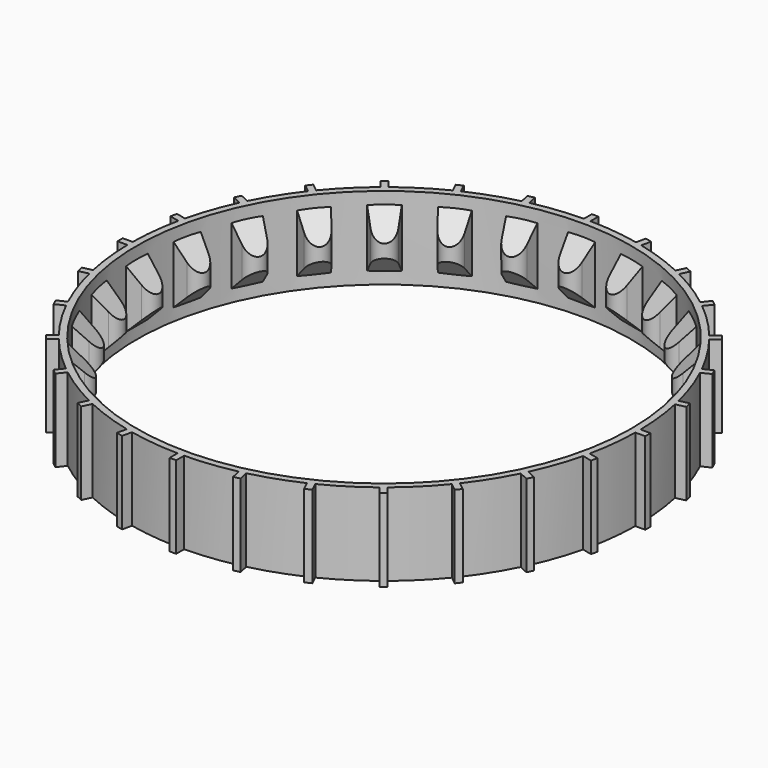
from build123d import *

# Parameters (mm, degrees)
SKETCH006_R      = 30.83
SKETCH006_R_2    = 30.03
EXTRUDE003_DEPTH = 5
EXTRUDE001_DEPTH = 10
EXTRUDE002_DEPTH = 5
ARRAY_COUNT      = 28


with BuildPart() as extrude003:
    # Sketch006 → Extrude003 (new body, symmetric)
    with BuildSketch(Plane.XY):
        Circle(SKETCH006_R)
        Circle(SKETCH006_R_2, mode=Mode.SUBTRACT)
    extrude(amount=EXTRUDE003_DEPTH, both=True)


with BuildPart() as extrude001:
    # Sketch005 → Extrude001 (new body, symmetric)
    with BuildSketch(Plane.XY):
        with BuildLine():
            ThreePointArc((1.32406, -28.366628), (0, -27.28), (-1.32406, -28.366628))
            Line((-1.774273, -30.63), (-1.32406, -28.366628))
            Line((-1.774273, -30.63), (-0.4, -30.63))
            Line((-0.4, -30.63), (-0.4, -32.03))
            Line((-0.4, -32.03), (0.4, -32.03))
            Line((0.4, -32.03), (0.4, -30.63))
            Line((0.4, -30.63), (1.774273, -30.63))
            Line((1.32406, -28.366628), (1.774273, -30.63))
        make_face()
    extrude(amount=EXTRUDE001_DEPTH, both=True)


with BuildPart() as thread_printable:
    # Sketch007 → Extrude002 (new body, symmetric)
    with BuildSketch(Plane.YZ):
        Polygon((-27.23, 0.75), (-27.23, -0.75), (-30.03, -3.55), (-30.23, -3.55), (-30.23, -5), (-35.23, -5), (-35.23, 5), (-30.23, 5), (-30.23, 3.55), (-30.03, 3.55), align=None)
    extrude(amount=EXTRUDE002_DEPTH, both=True)

    # Common: intersect Extrude001
    add(extrude001.part, mode=Mode.INTERSECT)

    # Array: Thread_printable ×28 about axis
    array_axis = Axis((0, 0, 0), (0, 0, 1))


with BuildPart() as thread_printable_1:
    add(thread_printable.part)
    for i in range(1, ARRAY_COUNT):
        add(thread_printable.part.rotate(array_axis, i * 360 / ARRAY_COUNT))

    # Fusion001: union Extrude003
    add(extrude003.part)


with BuildPart() as thread_printable_2:
    # Clone002 placement: moved
    add(thread_printable_1.part.moved(Location((-17, 41, 6))))


solid = thread_printable_2.part
